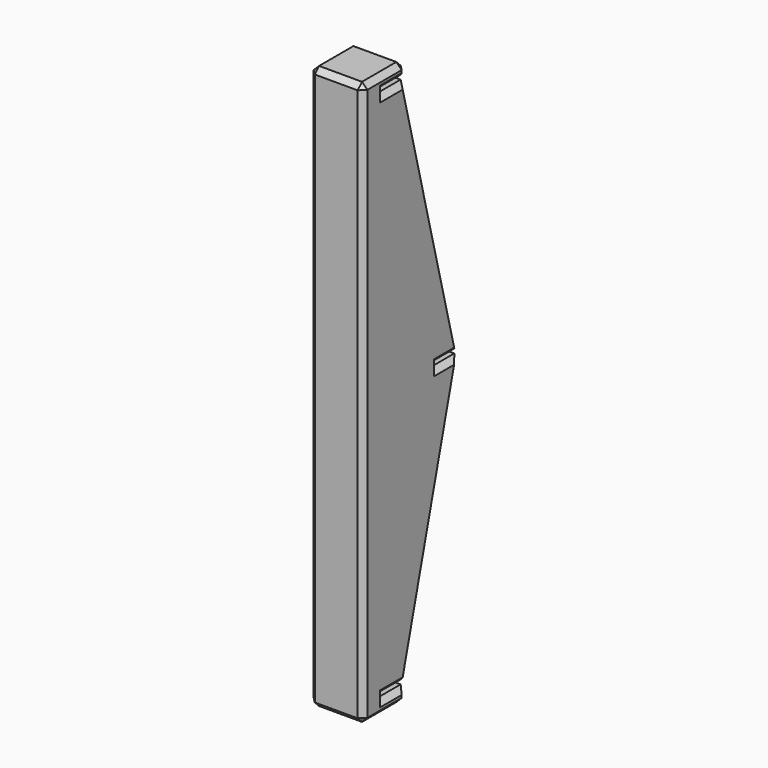
from build123d import *

# Parameters (mm, degrees)
PAD005_DEPTH            = 20
CHAMFER_SIZE            = 2
BODY003_ROLL_ANGLE      = 90
BODY003_PLACEMENT_ANGLE = 90


with BuildPart() as sideholder1:
    # Sketch006 → Pad005 (new body)
    with BuildSketch(Plane.XY):
        Polygon((0, -105), (20, -105), (20, -100), (10, -100), (10, -98.4), (20, -98.4), (45, -1.6), (35, -1.6), (35, 0), (45, 0), (20, 98.4), (10, 98.4), (10, 100), (20, 100), (20, 105), (0, 105), align=None)
    extrude(amount=PAD005_DEPTH)

    # Chamfer
    chamfer_edges = [sideholder1.edges().sort_by_distance(p)[0] for p in [
        (10, -105, 20),
        (20, -102.5, 20),
        (15, -100, 20),
        (10, -99.2, 20),
        (15, -98.4, 20),
        (32.5, -50, 20),
        (40, -1.6, 20),
        (35, -0.8, 20),
        (40, 0, 20),
        (32.5, 49.2, 20),
        (15, 98.4, 20),
        (10, 99.2, 20),
        (15, 100, 20),
        (20, 102.5, 20),
        (10, 105, 20),
        (0, 0, 20),
        (10, -105, 0),
        (20, -102.5, 0),
        (15, -100, 0),
        (10, -99.2, 0),
        (15, -98.4, 0),
        (32.5, -50, 0),
        (40, -1.6, 0),
        (35, -0.8, 0),
        (40, 0, 0),
        (32.5, 49.2, 0),
        (15, 98.4, 0),
        (10, 99.2, 0),
        (15, 100, 0),
        (20, 102.5, 0),
        (10, 105, 0),
        (0, 0, 0),
        (0, 105, 10),
        (0, -105, 10),
        (20, 105, 10),
        (20, -105, 10),
    ]]
    chamfer(chamfer_edges, length=CHAMFER_SIZE)


with BuildPart() as sideholder1_1:
    # Body003 roll: moved
    add(sideholder1.part.rotate(Axis((0, 0, 0), (1, 0, 0)), BODY003_ROLL_ANGLE))


with BuildPart() as sideholder1_2:
    # Body003 placement: moved
    add(sideholder1_1.part.moved(Location((120, -185, 0))).rotate(Axis((120, -185, 0), (0, 0, 1)), BODY003_PLACEMENT_ANGLE))


with BuildPart() as sideholder2_mirror:
    # mirror: instance of SideHolder1
    add(sideholder1_2.part.mirror(Plane(origin=(0, 0, 0), x_dir=(0, -1, 0), z_dir=(1, 0, 0))))


solid = sideholder2_mirror.part
